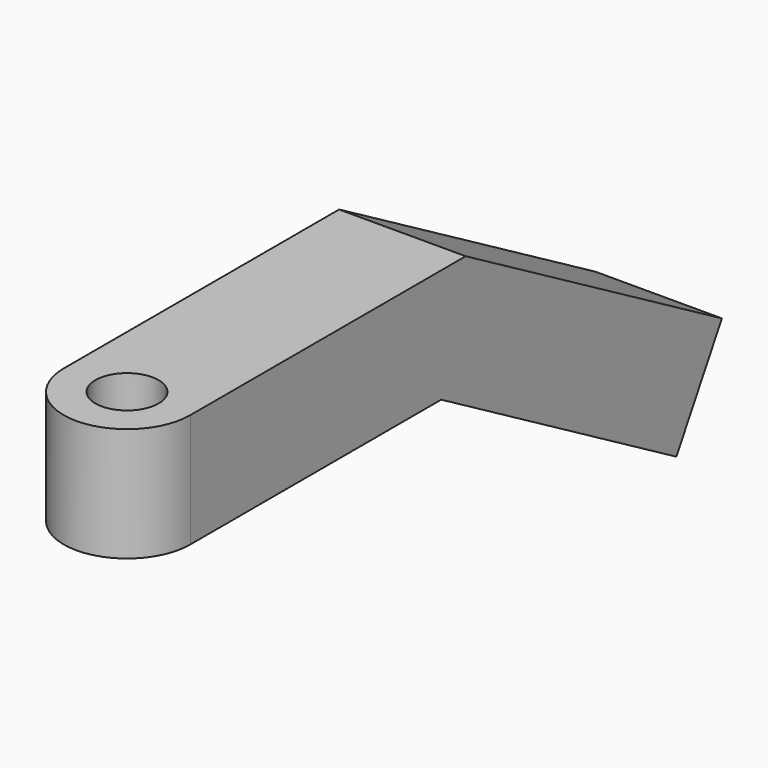
from build123d import *

# Parameters (mm, degrees)
F1_DEPTH = 10
F3_DEPTH = 9
F4_R     = 2.5
F5_DEPTH = 9


with BuildPart() as f1:
    # F0 (on Right) → F1 (new body)
    with BuildSketch(Plane.YZ):
        Polygon((2.31229, 22.044512), (-24.890254, 22.044512), (-24.890254, 13.044512), (-0.099253, 13.044512), (23.129309, -0.366504), (27.629309, 7.427725), align=None)
    extrude(amount=F1_DEPTH)

    # F2 (on face) → F3 (join)
    with BuildSketch(Plane(origin=(0, 0, 13.044512), x_dir=(1, 0, 0), z_dir=(0, 0, -1))):
        with BuildLine():
            Line((0, 24.890254), (10, 24.890254))
            ThreePointArc((10, 24.890254), (5, 29.890254), (0, 24.890254))
        make_face()
    extrude(amount=-F3_DEPTH)

    # F4 (on face) → F5 (cut)
    with BuildSketch(Plane(origin=(0, 0, 13.044512), x_dir=(1, 0, 0), z_dir=(0, 0, -1))):
        with Locations((5, 24.890254)):
            Circle(F4_R)
    extrude(amount=-F5_DEPTH, mode=Mode.SUBTRACT)


solid = f1.part
